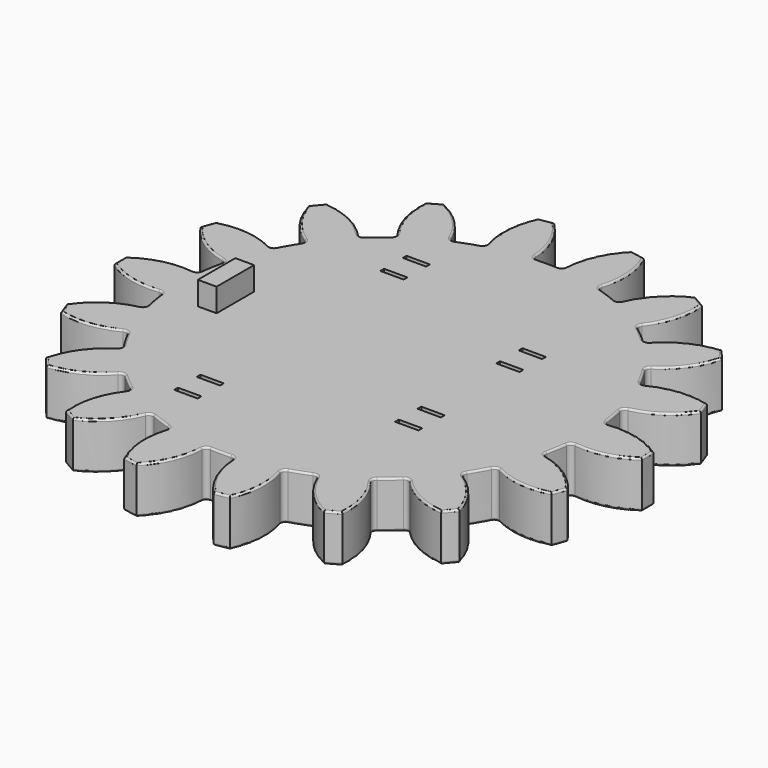
from build123d import *

# Parameters (mm, degrees)
F0_R     = 42.33291
F1_DEPTH = 12.7
F2_R     = 42.333329
F3_DEPTH = 12.7
F4_R     = 0.508
F5_W     = 6.35
F5_H     = 1.27
F6_DEPTH = 12.701
F7_W     = 5.08
F7_H     = 12.7
F8_DEPTH = 6.35


with BuildPart() as f1:
    # F0 (on Top) → F1 (new body)
    with BuildSketch(Plane.XY):
        with BuildLine():
            ThreePointArc((56.452232, -5.752368), (64.350991, -5.299967), (71.536838, -1.989582))
            ThreePointArc((71.536838, -1.989582), (71.5645, 0), (71.536838, 1.989582))
            ThreePointArc((71.536838, 1.989582), (64.350991, 5.299967), (56.452232, 5.752368))
            ThreePointArc((56.452232, 5.752368), (55.498042, 6.010415), (55.008283, 6.86902))
            ThreePointArc((55.008283, 6.86902), (54.59331, 9.626274), (54.040221, 12.359173))
            ThreePointArc((54.040221, 12.359173), (54.206783, 13.333506), (55.015171, 13.902343))
            ThreePointArc((55.015171, 13.902343), (62.282847, 17.028995), (67.903116, 22.597444))
            ThreePointArc((67.903116, 22.597444), (67.248633, 24.476501), (66.542162, 26.336635))
            ThreePointArc((66.542162, 26.336635), (58.657455, 26.989675), (51.08032, 24.713258))
            ThreePointArc((51.08032, 24.713258), (50.095417, 24.629391), (49.341534, 25.268709))
            ThreePointArc((49.341534, 25.268709), (48.008551, 27.71775), (46.554111, 30.096668))
            ThreePointArc((46.554111, 30.096668), (46.377387, 31.069209), (46.942469, 31.880226))
            ThreePointArc((46.942469, 31.880226), (52.702472, 37.304009), (56.079276, 44.458885))
            ThreePointArc((56.079276, 44.458885), (54.821588, 46.000774), (53.521519, 47.507101))
            ThreePointArc((53.521519, 47.507101), (45.888965, 45.42403), (39.547368, 40.693365))
            ThreePointArc((39.547368, 40.693365), (38.650546, 40.277698), (37.723468, 40.620618))
            ThreePointArc((37.723468, 40.620618), (35.633253, 42.466057), (33.452888, 44.20406))
            ThreePointArc((33.452888, 44.20406), (32.954193, 45.057507), (33.207813, 46.012883))
            ThreePointArc((33.207813, 46.012883), (36.765402, 53.079609), (37.491448, 60.957928))
            ThreePointArc((37.491448, 60.957928), (35.78225, 61.976675), (34.045391, 62.94751))
            ThreePointArc((34.045391, 62.94751), (27.585589, 58.379576), (23.244419, 51.765251))
            ThreePointArc((23.244419, 51.765251), (22.543849, 51.067921), (21.555395, 51.073081))
            ThreePointArc((21.555395, 51.073081), (18.960058, 52.09233), (16.316753, 52.979791))
            ThreePointArc((16.316753, 52.979791), (15.556237, 53.611204), (15.467804, 54.595707))
            ThreePointArc((15.467804, 54.595707), (16.393881, 62.453025), (14.381597, 70.104546))
            ThreePointArc((14.381597, 70.104546), (12.427045, 70.477274), (10.462886, 70.79552))
            ThreePointArc((10.462886, 70.79552), (5.954983, 64.293684), (4.137851, 56.593484))
            ThreePointArc((4.137851, 56.593484), (3.718031, 55.698599), (2.787424, 55.365377))
            ThreePointArc((2.787424, 55.365377), (0, 55.4355), (-2.787424, 55.365377))
            ThreePointArc((-2.787424, 55.365377), (-3.718031, 55.698599), (-4.137851, 56.593484))
            ThreePointArc((-4.137851, 56.593484), (-5.954983, 64.293684), (-10.462886, 70.79552))
            ThreePointArc((-10.462886, 70.79552), (-12.427045, 70.477274), (-14.381597, 70.104546))
            ThreePointArc((-14.381597, 70.104546), (-16.393881, 62.453025), (-15.467804, 54.595707))
            ThreePointArc((-15.467804, 54.595707), (-15.556237, 53.611204), (-16.316753, 52.979791))
            ThreePointArc((-16.316753, 52.979791), (-18.960058, 52.09233), (-21.555395, 51.073081))
            ThreePointArc((-21.555395, 51.073081), (-22.543849, 51.067921), (-23.244419, 51.765251))
            ThreePointArc((-23.244419, 51.765251), (-27.585589, 58.379576), (-34.045391, 62.94751))
            ThreePointArc((-34.045391, 62.94751), (-35.78225, 61.976675), (-37.491448, 60.957928))
            ThreePointArc((-37.491448, 60.957928), (-36.765402, 53.079609), (-33.207813, 46.012883))
            ThreePointArc((-33.207813, 46.012883), (-32.954193, 45.057507), (-33.452888, 44.20406))
            ThreePointArc((-33.452888, 44.20406), (-35.633253, 42.466057), (-37.723468, 40.620618))
            ThreePointArc((-37.723468, 40.620618), (-38.650546, 40.277698), (-39.547368, 40.693365))
            ThreePointArc((-39.547368, 40.693365), (-45.888965, 45.42403), (-53.521519, 47.507101))
            ThreePointArc((-53.521519, 47.507101), (-54.821588, 46.000774), (-56.079276, 44.458885))
            ThreePointArc((-56.079276, 44.458885), (-52.702472, 37.304009), (-46.942469, 31.880226))
            ThreePointArc((-46.942469, 31.880226), (-46.377387, 31.069209), (-46.554111, 30.096668))
            ThreePointArc((-46.554111, 30.096668), (-48.008551, 27.71775), (-49.341534, 25.268709))
            ThreePointArc((-49.341534, 25.268709), (-50.095417, 24.629391), (-51.08032, 24.713258))
            ThreePointArc((-51.08032, 24.713258), (-58.657455, 26.989675), (-66.542162, 26.336635))
            ThreePointArc((-66.542162, 26.336635), (-67.248633, 24.476501), (-67.903116, 22.597444))
            ThreePointArc((-67.903116, 22.597444), (-62.282847, 17.028995), (-55.015171, 13.902343))
            ThreePointArc((-55.015171, 13.902343), (-54.206783, 13.333506), (-54.040221, 12.359173))
            ThreePointArc((-54.040221, 12.359173), (-54.59331, 9.626274), (-55.008283, 6.86902))
            ThreePointArc((-55.008283, 6.86902), (-55.498042, 6.010415), (-56.452232, 5.752368))
            ThreePointArc((-56.452232, 5.752368), (-64.350991, 5.299967), (-71.536838, 1.989582))
            ThreePointArc((-71.536838, 1.989582), (-71.5645, 0), (-71.536838, -1.989582))
            ThreePointArc((-71.536838, -1.989582), (-64.350991, -5.299967), (-56.452232, -5.752368))
            ThreePointArc((-56.452232, -5.752368), (-55.498042, -6.010415), (-55.008283, -6.86902))
            ThreePointArc((-55.008283, -6.86902), (-54.59331, -9.626274), (-54.040221, -12.359173))
            ThreePointArc((-54.040221, -12.359173), (-54.206783, -13.333506), (-55.015171, -13.902343))
            ThreePointArc((-55.015171, -13.902343), (-62.282847, -17.028995), (-67.903116, -22.597444))
            ThreePointArc((-67.903116, -22.597444), (-67.248633, -24.476501), (-66.542162, -26.336635))
            ThreePointArc((-66.542162, -26.336635), (-58.657455, -26.989675), (-51.08032, -24.713258))
            ThreePointArc((-51.08032, -24.713258), (-50.095417, -24.629391), (-49.341534, -25.268709))
            ThreePointArc((-49.341534, -25.268709), (-48.008551, -27.71775), (-46.554111, -30.096668))
            ThreePointArc((-46.554111, -30.096668), (-46.377387, -31.069209), (-46.942469, -31.880226))
            ThreePointArc((-46.942469, -31.880226), (-52.702472, -37.304009), (-56.079276, -44.458885))
            ThreePointArc((-56.079276, -44.458885), (-54.821588, -46.000774), (-53.521519, -47.507101))
            ThreePointArc((-53.521519, -47.507101), (-45.888965, -45.42403), (-39.547368, -40.693365))
            ThreePointArc((-39.547368, -40.693365), (-38.650546, -40.277698), (-37.723468, -40.620618))
            ThreePointArc((-37.723468, -40.620618), (-35.633253, -42.466057), (-33.452888, -44.20406))
            ThreePointArc((-33.452888, -44.20406), (-32.954193, -45.057507), (-33.207813, -46.012883))
            ThreePointArc((-33.207813, -46.012883), (-36.765402, -53.079609), (-37.491448, -60.957928))
            ThreePointArc((-37.491448, -60.957928), (-35.78225, -61.976675), (-34.045391, -62.94751))
            ThreePointArc((-34.045391, -62.94751), (-27.585589, -58.379576), (-23.244419, -51.765251))
            ThreePointArc((-23.244419, -51.765251), (-22.543849, -51.067921), (-21.555395, -51.073081))
            ThreePointArc((-21.555395, -51.073081), (-18.960058, -52.09233), (-16.316753, -52.979791))
            ThreePointArc((-16.316753, -52.979791), (-15.556237, -53.611204), (-15.467804, -54.595707))
            ThreePointArc((-15.467804, -54.595707), (-16.393881, -62.453025), (-14.381597, -70.104546))
            ThreePointArc((-14.381597, -70.104546), (-12.427045, -70.477274), (-10.462886, -70.79552))
            ThreePointArc((-10.462886, -70.79552), (-5.954983, -64.293684), (-4.137851, -56.593484))
            ThreePointArc((-4.137851, -56.593484), (-3.718031, -55.698599), (-2.787424, -55.365377))
            ThreePointArc((-2.787424, -55.365377), (0, -55.4355), (2.787424, -55.365377))
            ThreePointArc((2.787424, -55.365377), (3.718031, -55.698599), (4.137851, -56.593484))
            ThreePointArc((4.137851, -56.593484), (5.954983, -64.293684), (10.462886, -70.79552))
            ThreePointArc((10.462886, -70.79552), (12.427045, -70.477274), (14.381597, -70.104546))
            ThreePointArc((14.381597, -70.104546), (16.393881, -62.453025), (15.467804, -54.595707))
            ThreePointArc((15.467804, -54.595707), (15.556237, -53.611204), (16.316753, -52.979791))
            ThreePointArc((16.316753, -52.979791), (18.960058, -52.09233), (21.555395, -51.073081))
            ThreePointArc((21.555395, -51.073081), (22.543849, -51.067921), (23.244419, -51.765251))
            ThreePointArc((23.244419, -51.765251), (27.585589, -58.379576), (34.045391, -62.94751))
            ThreePointArc((34.045391, -62.94751), (35.78225, -61.976675), (37.491448, -60.957928))
            ThreePointArc((37.491448, -60.957928), (36.765402, -53.079609), (33.207813, -46.012883))
            ThreePointArc((33.207813, -46.012883), (32.954193, -45.057507), (33.452888, -44.20406))
            ThreePointArc((33.452888, -44.20406), (35.633253, -42.466057), (37.723468, -40.620618))
            ThreePointArc((37.723468, -40.620618), (38.650546, -40.277698), (39.547368, -40.693365))
            ThreePointArc((39.547368, -40.693365), (45.888965, -45.42403), (53.521519, -47.507101))
            ThreePointArc((53.521519, -47.507101), (54.821588, -46.000774), (56.079276, -44.458885))
            ThreePointArc((56.079276, -44.458885), (52.702472, -37.304009), (46.942469, -31.880226))
            ThreePointArc((46.942469, -31.880226), (46.377387, -31.069209), (46.554111, -30.096668))
            ThreePointArc((46.554111, -30.096668), (48.008551, -27.71775), (49.341534, -25.268709))
            ThreePointArc((49.341534, -25.268709), (50.095417, -24.629391), (51.08032, -24.713258))
            ThreePointArc((51.08032, -24.713258), (58.657455, -26.989675), (66.542162, -26.336635))
            ThreePointArc((66.542162, -26.336635), (67.248633, -24.476501), (67.903116, -22.597444))
            ThreePointArc((67.903116, -22.597444), (62.282847, -17.028995), (55.015171, -13.902343))
            ThreePointArc((55.015171, -13.902343), (54.206783, -13.333506), (54.040221, -12.359173))
            ThreePointArc((54.040221, -12.359173), (54.59331, -9.626274), (55.008283, -6.86902))
            ThreePointArc((55.008283, -6.86902), (55.498042, -6.010415), (56.452232, -5.752368))
        make_face()
        Circle(F0_R, mode=Mode.SUBTRACT)
    extrude(amount=F1_DEPTH)

    # F2 (on Top) → F3 (join)
    with BuildSketch(Plane.XY):
        Circle(F2_R)
    extrude(amount=F3_DEPTH)

    # F4
    f4_edges = [f1.edges().sort_by_distance(p)[0] for p in [
        (62.282847, -17.028995, 12.7),
        (54.206783, -13.333506, 12.7),
        (54.59331, -9.626274, 12.7),
        (55.498042, -6.010415, 12.7),
        (64.350991, -5.299967, 12.7),
        (71.5645, 0, 12.7),
        (64.350991, 5.299967, 12.7),
        (55.498042, 6.010415, 12.7),
        (54.59331, 9.626274, 12.7),
        (54.206783, 13.333506, 12.7),
        (62.282847, 17.028995, 12.7),
        (67.248633, 24.476501, 12.7),
        (58.657455, 26.989675, 12.7),
        (50.095417, 24.629391, 12.7),
        (48.008551, 27.71775, 12.7),
        (46.377387, 31.069209, 12.7),
        (52.702472, 37.304009, 12.7),
        (54.821588, 46.000774, 12.7),
        (45.888965, 45.42403, 12.7),
        (38.650546, 40.277698, 12.7),
        (35.633253, 42.466057, 12.7),
        (32.954193, 45.057507, 12.7),
        (36.765402, 53.079609, 12.7),
        (35.78225, 61.976675, 12.7),
        (27.585589, 58.379576, 12.7),
        (22.543849, 51.067921, 12.7),
        (18.960058, 52.09233, 12.7),
        (15.556237, 53.611204, 12.7),
        (16.393881, 62.453025, 12.7),
        (12.427045, 70.477274, 12.7),
        (5.954983, 64.293684, 12.7),
        (3.718031, 55.698599, 12.7),
        (0, 55.4355, 12.7),
        (-3.718031, 55.698599, 12.7),
        (-5.954983, 64.293684, 12.7),
        (-12.427045, 70.477274, 12.7),
        (-16.393881, 62.453025, 12.7),
        (-15.556237, 53.611204, 12.7),
        (-18.960058, 52.09233, 12.7),
        (-22.543849, 51.067921, 12.7),
        (-27.585589, 58.379576, 12.7),
        (-35.78225, 61.976675, 12.7),
        (-36.765402, 53.079609, 12.7),
        (-32.954193, 45.057507, 12.7),
        (-35.633253, 42.466057, 12.7),
        (-38.650546, 40.277698, 12.7),
        (-45.888965, 45.42403, 12.7),
        (-54.821588, 46.000774, 12.7),
        (-52.702472, 37.304009, 12.7),
        (-46.377387, 31.069209, 12.7),
        (-48.008551, 27.71775, 12.7),
        (-50.095417, 24.629391, 12.7),
        (-58.657455, 26.989675, 12.7),
        (-67.248633, 24.476501, 12.7),
        (-62.282847, 17.028995, 12.7),
        (-54.206783, 13.333506, 12.7),
        (-54.59331, 9.626274, 12.7),
        (-55.498042, 6.010415, 12.7),
        (-64.350991, 5.299967, 12.7),
        (-71.5645, 0, 12.7),
        (-64.350991, -5.299967, 12.7),
        (-55.498042, -6.010415, 12.7),
        (-54.59331, -9.626274, 12.7),
        (-54.206783, -13.333506, 12.7),
        (-62.282847, -17.028995, 12.7),
        (-67.248633, -24.476501, 12.7),
        (-58.657455, -26.989675, 12.7),
        (-50.095417, -24.629391, 12.7),
        (-48.008551, -27.71775, 12.7),
        (-46.377387, -31.069209, 12.7),
        (-52.702472, -37.304009, 12.7),
        (-54.821588, -46.000774, 12.7),
        (-45.888965, -45.42403, 12.7),
        (-38.650546, -40.277698, 12.7),
        (-35.633253, -42.466057, 12.7),
        (-32.954193, -45.057507, 12.7),
        (-36.765402, -53.079609, 12.7),
        (-35.78225, -61.976675, 12.7),
        (-27.585589, -58.379576, 12.7),
        (-22.543849, -51.067921, 12.7),
        (-18.960058, -52.09233, 12.7),
        (-15.556237, -53.611204, 12.7),
        (-16.393881, -62.453025, 12.7),
        (-12.427045, -70.477274, 12.7),
        (-5.954983, -64.293684, 12.7),
        (-3.718031, -55.698599, 12.7),
        (0, -55.4355, 12.7),
        (3.718031, -55.698599, 12.7),
        (5.954983, -64.293684, 12.7),
        (12.427045, -70.477274, 12.7),
        (16.393881, -62.453025, 12.7),
        (15.556237, -53.611204, 12.7),
        (18.960058, -52.09233, 12.7),
        (22.543849, -51.067921, 12.7),
        (27.585589, -58.379576, 12.7),
        (35.78225, -61.976675, 12.7),
        (36.765402, -53.079609, 12.7),
        (32.954193, -45.057507, 12.7),
        (35.633253, -42.466057, 12.7),
        (38.650546, -40.277698, 12.7),
        (45.888965, -45.42403, 12.7),
        (54.821588, -46.000774, 12.7),
        (52.702472, -37.304009, 12.7),
        (46.377387, -31.069209, 12.7),
        (48.008551, -27.71775, 12.7),
        (50.095417, -24.629391, 12.7),
        (58.657455, -26.989675, 12.7),
        (67.248633, -24.476501, 12.7),
        (62.282847, -17.028995, 0),
        (54.206783, -13.333506, 0),
        (54.59331, -9.626274, 0),
        (55.498042, -6.010415, 0),
        (64.350991, -5.299967, 0),
        (71.5645, 0, 0),
        (64.350991, 5.299967, 0),
        (55.498042, 6.010415, 0),
        (54.59331, 9.626274, 0),
        (54.206783, 13.333506, 0),
        (62.282847, 17.028995, 0),
        (67.248633, 24.476501, 0),
        (58.657455, 26.989675, 0),
        (50.095417, 24.629391, 0),
        (48.008551, 27.71775, 0),
        (46.377387, 31.069209, 0),
        (52.702472, 37.304009, 0),
        (54.821588, 46.000774, 0),
        (45.888965, 45.42403, 0),
        (38.650546, 40.277698, 0),
        (35.633253, 42.466057, 0),
        (32.954193, 45.057507, 0),
        (36.765402, 53.079609, 0),
        (35.78225, 61.976675, 0),
        (27.585589, 58.379576, 0),
        (22.543849, 51.067921, 0),
        (18.960058, 52.09233, 0),
        (15.556237, 53.611204, 0),
        (16.393881, 62.453025, 0),
        (12.427045, 70.477274, 0),
        (5.954983, 64.293684, 0),
        (3.718031, 55.698599, 0),
        (0, 55.4355, 0),
        (-3.718031, 55.698599, 0),
        (-5.954983, 64.293684, 0),
        (-12.427045, 70.477274, 0),
        (-16.393881, 62.453025, 0),
        (-15.556237, 53.611204, 0),
        (-18.960058, 52.09233, 0),
        (-22.543849, 51.067921, 0),
        (-27.585589, 58.379576, 0),
        (-35.78225, 61.976675, 0),
        (-36.765402, 53.079609, 0),
        (-32.954193, 45.057507, 0),
        (-35.633253, 42.466057, 0),
        (-38.650546, 40.277698, 0),
        (-45.888965, 45.42403, 0),
        (-54.821588, 46.000774, 0),
        (-52.702472, 37.304009, 0),
        (-46.377387, 31.069209, 0),
        (-48.008551, 27.71775, 0),
        (-50.095417, 24.629391, 0),
        (-58.657455, 26.989675, 0),
        (-67.248633, 24.476501, 0),
        (-62.282847, 17.028995, 0),
        (-54.206783, 13.333506, 0),
        (-54.59331, 9.626274, 0),
        (-55.498042, 6.010415, 0),
        (-64.350991, 5.299967, 0),
        (-71.5645, 0, 0),
        (-64.350991, -5.299967, 0),
        (-55.498042, -6.010415, 0),
        (-54.59331, -9.626274, 0),
        (-54.206783, -13.333506, 0),
        (-62.282847, -17.028995, 0),
        (-67.248633, -24.476501, 0),
        (-58.657455, -26.989675, 0),
        (-50.095417, -24.629391, 0),
        (-48.008551, -27.71775, 0),
        (-46.377387, -31.069209, 0),
        (-52.702472, -37.304009, 0),
        (-54.821588, -46.000774, 0),
        (-45.888965, -45.42403, 0),
        (-38.650546, -40.277698, 0),
        (-35.633253, -42.466057, 0),
        (-32.954193, -45.057507, 0),
        (-36.765402, -53.079609, 0),
        (-35.78225, -61.976675, 0),
        (-27.585589, -58.379576, 0),
        (-22.543849, -51.067921, 0),
        (-18.960058, -52.09233, 0),
        (-15.556237, -53.611204, 0),
        (-16.393881, -62.453025, 0),
        (-12.427045, -70.477274, 0),
        (-5.954983, -64.293684, 0),
        (-3.718031, -55.698599, 0),
        (0, -55.4355, 0),
        (3.718031, -55.698599, 0),
        (5.954983, -64.293684, 0),
        (12.427045, -70.477274, 0),
        (16.393881, -62.453025, 0),
        (15.556237, -53.611204, 0),
        (18.960058, -52.09233, 0),
        (22.543849, -51.067921, 0),
        (27.585589, -58.379576, 0),
        (35.78225, -61.976675, 0),
        (36.765402, -53.079609, 0),
        (32.954193, -45.057507, 0),
        (35.633253, -42.466057, 0),
        (38.650546, -40.277698, 0),
        (45.888965, -45.42403, 0),
        (54.821588, -46.000774, 0),
        (52.702472, -37.304009, 0),
        (46.377387, -31.069209, 0),
        (48.008551, -27.71775, 0),
        (50.095417, -24.629391, 0),
        (58.657455, -26.989675, 0),
        (67.248633, -24.476501, 0),
    ]]
    fillet(f4_edges, radius=F4_R)

    # F5 (on face) → F6 (cut, through all)
    with BuildSketch(Plane.XY.offset(12.7)):
        with Locations((-22.225, 38.735)):
            Rectangle(F5_W, F5_H)
        with Locations((-22.225, -38.735)):
            Rectangle(F5_W, F5_H)
        with Locations((23.4504, 13.335)):
            Rectangle(F5_W, F5_H)
        with Locations((23.4504, -13.335)):
            Rectangle(F5_W, F5_H)
        with Locations((-22.225, 31.115)):
            Rectangle(F5_W, F5_H)
        with Locations((23.4504, 20.955)):
            Rectangle(F5_W, F5_H)
        with Locations((-22.225, -31.115)):
            Rectangle(F5_W, F5_H)
        with Locations((23.4504, -20.955)):
            Rectangle(F5_W, F5_H)
    extrude(amount=-F6_DEPTH, mode=Mode.SUBTRACT)

    # F7 (on face) → F8 (join)
    with BuildSketch(Plane.XY.offset(12.7)):
        with Locations((-42.860698, 0)):
            Rectangle(F7_W, F7_H)
    extrude(amount=F8_DEPTH)


solid = f1.part
